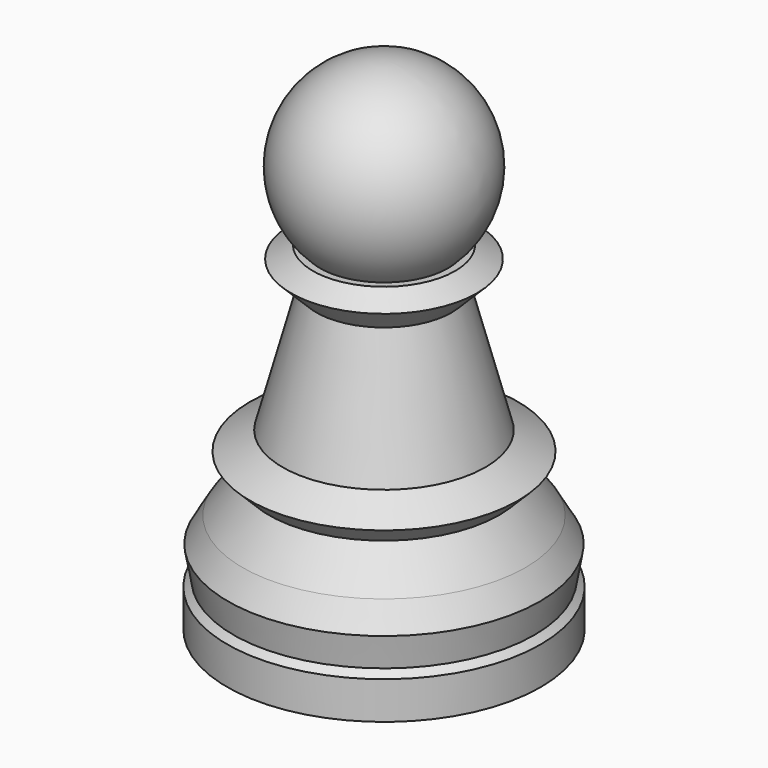
from build123d import *

# Parameters (mm, degrees)
F0_R      = 12.5
F1_DEPTH  = 3
F1_FACE_R = 12.5
F2_DEPTH  = 0.5
F2_TAPER  = 45
F2_FACE_R = 12
F3_DEPTH  = 2.5
F3_TAPER  = -10
F3_FACE_R = 12.4408174518
F4_DEPTH  = 2
F4_TAPER  = 30
F4_FACE_R = 11.2861169134
F5_DEPTH  = 3
F5_TAPER  = 35
F5_FACE_R = 9.1854942988
F6_DEPTH  = 1.5
F6_TAPER  = -45
F6_FACE_R = 10.6854942988
F7_DEPTH  = 1.5
F7_TAPER  = 60
F7_FACE_R = 8.0874180874
F8_DEPTH  = 10
F8_TAPER  = 15
F8_FACE_R = 5.4079261631
F9_DEPTH  = 2
F9_TAPER  = -45
F9_FACE_R = 7.4079261631
F10_DEPTH = 1
F10_TAPER = 60


with BuildPart() as f1:
    # F0 (on Top) → F1 (new body)
    with BuildSketch(Plane.XY):
        Circle(F0_R)
    extrude(amount=F1_DEPTH)

    # F1_face (on face) → F2 (join)
    with BuildSketch(Plane.XY.offset(3)):
        Circle(F1_FACE_R)
    extrude(amount=F2_DEPTH, taper=F2_TAPER)

    # F2_face (on face) → F3 (join)
    with BuildSketch(Plane.XY.offset(3.5)):
        Circle(F2_FACE_R)
    extrude(amount=F3_DEPTH, taper=F3_TAPER)

    # F3_face (on face) → F4 (join)
    with BuildSketch(Plane.XY.offset(6)):
        Circle(F3_FACE_R)
    extrude(amount=F4_DEPTH, taper=F4_TAPER)

    # F4_face (on face) → F5 (join)
    with BuildSketch(Plane.XY.offset(8)):
        Circle(F4_FACE_R)
    extrude(amount=F5_DEPTH, taper=F5_TAPER)

    # F5_face (on face) → F6 (join)
    with BuildSketch(Plane.XY.offset(11)):
        Circle(F5_FACE_R)
    extrude(amount=F6_DEPTH, taper=F6_TAPER)

    # F6_face (on face) → F7 (join)
    with BuildSketch(Plane.XY.offset(12.5)):
        Circle(F6_FACE_R)
    extrude(amount=F7_DEPTH, taper=F7_TAPER)

    # F7_face (on face) → F8 (join)
    with BuildSketch(Plane.XY.offset(14)):
        Circle(F7_FACE_R)
    extrude(amount=F8_DEPTH, taper=F8_TAPER)

    # F8_face (on face) → F9 (join)
    with BuildSketch(Plane.XY.offset(24)):
        Circle(F8_FACE_R)
    extrude(amount=F9_DEPTH, taper=F9_TAPER)

    # F9_face (on face) → F10 (join)
    with BuildSketch(Plane.XY.offset(26)):
        Circle(F9_FACE_R)
    extrude(amount=F10_DEPTH, taper=F10_TAPER)

    # F11 (on Front) → F12 (revolve)
    with BuildSketch(Plane.XZ):
        with BuildLine():
            Line((0, 32.5), (0, 25))
            ThreePointArc((0, 25), (5.3033008589, 27.1966991411), (7.5, 32.5))
            ThreePointArc((7.5, 32.5), (5.3033008589, 37.8033008589), (0, 40))
            Line((0, 40), (0, 32.5))
        make_face()
    revolve(axis=Axis((0, 0, 43.8021092117), (0, 0, 1)))


solid = f1.part
